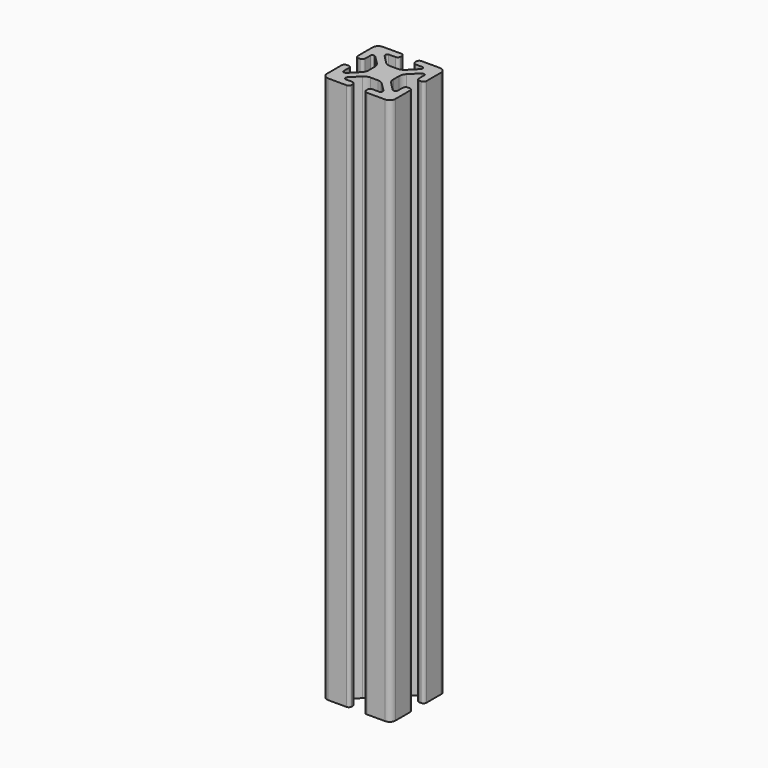
from build123d import *

# Parameters (mm, degrees)
F1_DEPTH = 304.8


with BuildPart() as f1:
    # F0 (on Top) → F1 (new body)
    with BuildSketch(Plane.XY):
        with BuildLine():
            ThreePointArc((0, 34.925), (-2.245064, 33.995064), (-3.175, 31.75))
            Line((-3.175, 31.75), (-3.175, 21.5138))
            ThreePointArc((-3.175, 21.5138), (-2.713752, 20.400248), (-1.6002, 19.939))
            Line((-1.6002, 19.939), (-0.6858, 19.939))
            ThreePointArc((-0.6858, 19.939), (0.427752, 20.400248), (0.889, 21.5138))
            Line((0.889, 21.5138), (0.889, 25.273))
            ThreePointArc((0.889, 25.273), (1.149382, 25.901618), (1.778, 26.162))
            Line((1.778, 26.162), (2.346082, 26.162))
            ThreePointArc((2.346082, 26.162), (2.686288, 26.094329), (2.9747, 25.901618))
            Line((2.9747, 25.901618), (7.61416, 21.262158))
            ThreePointArc((7.61416, 21.262158), (8.643787, 19.721212), (9.005344, 17.903543))
            Line((9.005344, 17.903543), (9.005344, 13.846457))
            ThreePointArc((9.005344, 13.846457), (8.643787, 12.028788), (7.61416, 10.487842))
            Line((7.61416, 10.487842), (2.9747, 5.848382))
            ThreePointArc((2.9747, 5.848382), (2.686288, 5.655671), (2.346082, 5.588))
            Line((2.346082, 5.588), (1.778, 5.588))
            ThreePointArc((1.778, 5.588), (1.149382, 5.848382), (0.889, 6.477))
            Line((0.889, 6.477), (0.889, 10.2362))
            ThreePointArc((0.889, 10.2362), (0.427752, 11.349752), (-0.6858, 11.811))
            Line((-0.6858, 11.811), (-1.6002, 11.811))
            ThreePointArc((-1.6002, 11.811), (-2.713752, 11.349752), (-3.175, 10.2362))
            Line((-3.175, 10.2362), (-3.175, 0))
            ThreePointArc((-3.175, 0), (-2.245064, -2.245064), (0, -3.175))
            Line((0, -3.175), (10.2362, -3.175))
            ThreePointArc((10.2362, -3.175), (11.349752, -2.713752), (11.811, -1.6002))
            Line((11.811, -1.6002), (11.811, -0.6858))
            ThreePointArc((11.811, -0.6858), (11.349752, 0.427752), (10.2362, 0.889))
            Line((10.2362, 0.889), (6.477, 0.889))
            ThreePointArc((6.477, 0.889), (5.848382, 1.149382), (5.588, 1.778))
            Line((5.588, 1.778), (5.588, 2.346082))
            ThreePointArc((5.588, 2.346082), (5.655671, 2.686288), (5.848382, 2.9747))
            Line((5.848382, 2.9747), (10.487842, 7.61416))
            ThreePointArc((10.487842, 7.61416), (12.028788, 8.643787), (13.846457, 9.005344))
            Line((13.846457, 9.005344), (17.903543, 9.005344))
            ThreePointArc((17.903543, 9.005344), (19.721212, 8.643787), (21.262158, 7.61416))
            Line((21.262158, 7.61416), (25.901618, 2.9747))
            ThreePointArc((25.901618, 2.9747), (26.094329, 2.686288), (26.162, 2.346082))
            Line((26.162, 2.346082), (26.162, 1.778))
            ThreePointArc((26.162, 1.778), (25.901618, 1.149382), (25.273, 0.889))
            Line((25.273, 0.889), (21.5138, 0.889))
            ThreePointArc((21.5138, 0.889), (20.400248, 0.427752), (19.939, -0.6858))
            Line((19.939, -0.6858), (19.939, -1.6002))
            ThreePointArc((19.939, -1.6002), (20.400248, -2.713752), (21.5138, -3.175))
            Line((21.5138, -3.175), (31.75, -3.175))
            ThreePointArc((31.75, -3.175), (33.995064, -2.245064), (34.925, 0))
            Line((34.925, 0), (34.925, 10.2362))
            ThreePointArc((34.925, 10.2362), (34.463752, 11.349752), (33.3502, 11.811))
            Line((33.3502, 11.811), (32.4358, 11.811))
            ThreePointArc((32.4358, 11.811), (31.322248, 11.349752), (30.861, 10.2362))
            Line((30.861, 10.2362), (30.861, 6.477))
            ThreePointArc((30.861, 6.477), (30.600618, 5.848382), (29.972, 5.588))
            Line((29.972, 5.588), (29.403918, 5.588))
            ThreePointArc((29.403918, 5.588), (29.063712, 5.655671), (28.7753, 5.848382))
            Line((28.7753, 5.848382), (24.13584, 10.487842))
            ThreePointArc((24.13584, 10.487842), (23.106213, 12.028788), (22.744656, 13.846457))
            Line((22.744656, 13.846457), (22.744656, 17.903543))
            ThreePointArc((22.744656, 17.903543), (23.106213, 19.721212), (24.13584, 21.262158))
            Line((24.13584, 21.262158), (28.7753, 25.901618))
            ThreePointArc((28.7753, 25.901618), (29.063712, 26.094329), (29.403918, 26.162))
            Line((29.403918, 26.162), (29.972, 26.162))
            ThreePointArc((29.972, 26.162), (30.600618, 25.901618), (30.861, 25.273))
            Line((30.861, 25.273), (30.861, 21.5138))
            ThreePointArc((30.861, 21.5138), (31.322248, 20.400248), (32.4358, 19.939))
            Line((32.4358, 19.939), (33.3502, 19.939))
            ThreePointArc((33.3502, 19.939), (34.463752, 20.400248), (34.925, 21.5138))
            Line((34.925, 21.5138), (34.925, 31.75))
            ThreePointArc((34.925, 31.75), (33.995064, 33.995064), (31.75, 34.925))
            Line((31.75, 34.925), (21.5138, 34.925))
            ThreePointArc((21.5138, 34.925), (20.400248, 34.463752), (19.939, 33.3502))
            Line((19.939, 33.3502), (19.939, 32.4358))
            ThreePointArc((19.939, 32.4358), (20.400248, 31.322248), (21.5138, 30.861))
            Line((21.5138, 30.861), (25.273, 30.861))
            ThreePointArc((25.273, 30.861), (25.901618, 30.600618), (26.162, 29.972))
            Line((26.162, 29.972), (26.162, 29.403918))
            ThreePointArc((26.162, 29.403918), (26.094329, 29.063712), (25.901618, 28.7753))
            Line((25.901618, 28.7753), (21.262158, 24.13584))
            ThreePointArc((21.262158, 24.13584), (19.721212, 23.106213), (17.903543, 22.744656))
            Line((17.903543, 22.744656), (13.846457, 22.744656))
            ThreePointArc((13.846457, 22.744656), (12.028788, 23.106213), (10.487842, 24.13584))
            Line((10.487842, 24.13584), (5.848382, 28.7753))
            ThreePointArc((5.848382, 28.7753), (5.655671, 29.063712), (5.588, 29.403918))
            Line((5.588, 29.403918), (5.588, 29.972))
            ThreePointArc((5.588, 29.972), (5.848382, 30.600618), (6.477, 30.861))
            Line((6.477, 30.861), (10.2362, 30.861))
            ThreePointArc((10.2362, 30.861), (11.349752, 31.322248), (11.811, 32.4358))
            Line((11.811, 32.4358), (11.811, 33.3502))
            ThreePointArc((11.811, 33.3502), (11.349752, 34.463752), (10.2362, 34.925))
            Line((10.2362, 34.925), (0, 34.925))
        make_face()
    extrude(amount=-F1_DEPTH)


solid = f1.part
